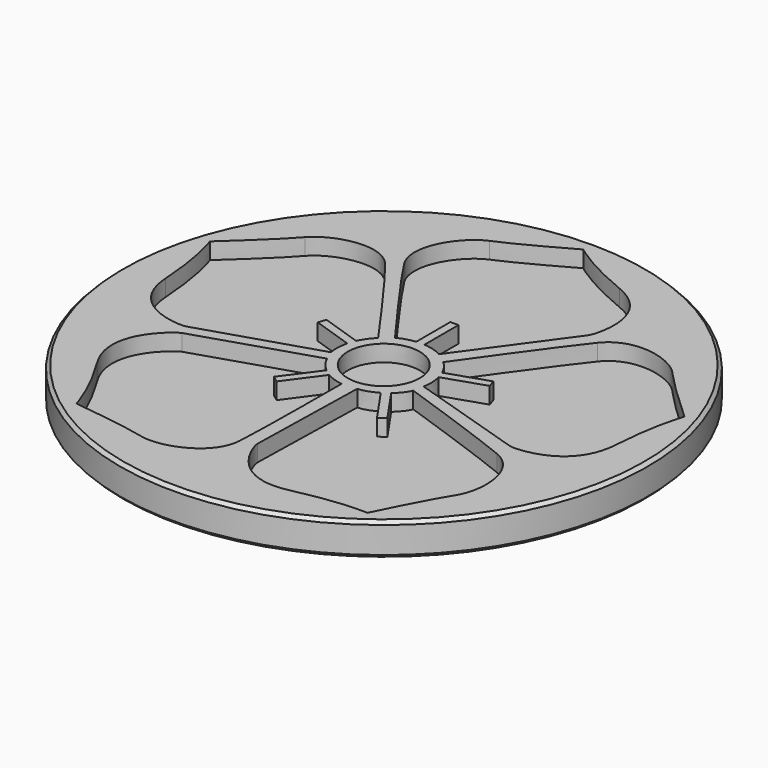
from build123d import *

# Parameters (mm, degrees)
POCKET_DEPTH = 1.25


with BuildPart() as part:
    # Sketch (on DatumPlane) → Revolution (revolve)
    with BuildSketch(Plane.YZ):
        Polygon((0, 0), (0, -2.5), (19.75, -2.5), (20, -2.25), (20, -0.25), (19.75, 0), align=None)
    revolve(axis=Axis((0, 0, 0), (0, 0, 1)))

    # Sketch005 → Pocket (cut)
    with BuildSketch(Plane.XY):
        with BuildLine():
            add(Edge.make_bspline(
                [(-0.056168, 18.95), (-0.056168, 18.95), (-3.561956, 16.959927), (-5.077856, 16.34444)],
                knots=[0, 0, 0, 0, 1, 1, 1, 1], degree=3))
            add(Edge.make_bspline(
                [(-5.077856, 16.34444), (-6.593818, 15.728394), (-8.536331, 12.98096), (-7.162366, 10.849076)],
                knots=[0, 0, 0, 0, 1, 1, 1, 1], degree=3))
            add(Edge.make_bspline(
                [(-7.162366, 10.849076), (-5.788401, 8.717192), (-1.666878, 3.126833), (-1.666878, 3.126833)],
                knots=[0, 0, 0, 0, 1, 1, 1, 1], degree=3))
            add(Edge.make_bspline(
                [(-1.666878, 3.126833), (-1.666878, 3.126833), (-1.382573, 3.410765), (-0.387723, 3.553135)],
                knots=[0, 0, 0, 0, 1, 1, 1, 1], degree=3))
            add(Edge.make_bspline(
                [(-0.387723, 3.553135), (-0.387723, 6.774804)],
                knots=[0, 0, 51.888, 51.888], degree=1))
            add(Edge.make_bspline(
                [(-0.387723, 6.774804), (0.228199, 6.774804)],
                knots=[0, 0, 9.92, 9.92], degree=1))
            add(Edge.make_bspline(
                [(0.228199, 6.774804), (0.228199, 3.553135)],
                knots=[0, 0, 51.888, 51.888], degree=1))
            add(Edge.make_bspline(
                [(0.228199, 3.553135), (0.228199, 3.553135), (1.08099, 3.505761), (1.649475, 3.126833)],
                knots=[0, 0, 0, 0, 1, 1, 1, 1], degree=3))
            add(Edge.make_bspline(
                [(1.649475, 3.126833), (1.649475, 3.126833), (6.813098, 10.23303), (7.050029, 10.564585)],
                knots=[0, 0, 0, 0, 1, 1, 1, 1], degree=3))
            add(Edge.make_bspline(
                [(7.050029, 10.564585), (7.287022, 10.896202), (8.546682, 14.842199), (4.72865, 16.391565)],
                knots=[0, 0, 0, 0, 1, 1, 1, 1], degree=3))
            add(Edge.make_bspline(
                [(4.72865, 16.391565), (1.459856, 17.718405), (-0.056168, 18.95), (-0.056168, 18.95)],
                knots=[0, 0, 0, 0, 1, 1, 1, 1], degree=3))
        make_face()
        with BuildLine():
            add(Edge.make_bspline(
                [(2.691451, 0.024313), (2.691451, -1.480038), (1.471715, -2.699837), (-0.032513, -2.699837)],
                knots=[0, 0, 0, 0, 1, 1, 1, 1], degree=3))
            add(Edge.make_bspline(
                [(-0.032513, -2.699837), (-1.537113, -2.699837), (-2.756663, -1.480038), (-2.756663, 0.024313)],
                knots=[0, 0, 0, 0, 1, 1, 1, 1], degree=3))
            add(Edge.make_bspline(
                [(-2.756663, 0.024313), (-2.756663, 1.528665), (-1.537113, 2.748153), (-0.032513, 2.748153)],
                knots=[0, 0, 0, 0, 1, 1, 1, 1], degree=3))
            add(Edge.make_bspline(
                [(-0.032513, 2.748153), (1.471777, 2.748153), (2.691451, 1.528603), (2.691451, 0.024313)],
                knots=[0, 0, 0, 0, 1, 1, 1, 1], degree=3))
        make_face()
        with BuildLine():
            add(Edge.make_bspline(
                [(18.002136, 5.962308), (18.002136, 5.962308), (15.005789, 8.659201), (13.942144, 9.902531)],
                knots=[0, 0, 0, 0, 1, 1, 1, 1], degree=3))
            add(Edge.make_bspline(
                [(13.942144, 9.902531), (12.878499, 11.145861), (9.657824, 12.120284), (8.069839, 10.142505)],
                knots=[0, 0, 0, 0, 1, 1, 1, 1], degree=3))
            add(Edge.make_bspline(
                [(8.069839, 10.142505), (6.481667, 8.165408), (2.481342, 2.487442), (2.481342, 2.487442)],
                knots=[0, 0, 0, 0, 1, 1, 1, 1], degree=3))
            add(Edge.make_bspline(
                [(2.481342, 2.487442), (2.481342, 2.487442), (2.840527, 2.307446), (3.290298, 1.408647)],
                knots=[0, 0, 0, 0, 1, 1, 1, 1], degree=3))
            add(Edge.make_bspline(
                [(3.290298, 1.408647), (6.346438, 2.427464)],
                knots=[0, 0, 51.885071, 51.885071], degree=1))
            add(Edge.make_bspline(
                [(6.346438, 2.427464), (6.541273, 1.843269)],
                knots=[0, 0, 9.918484, 9.918484], degree=1))
            add(Edge.make_bspline(
                [(6.541273, 1.843269), (3.485071, 0.824701)],
                knots=[0, 0, 51.884755, 51.884755], degree=1))
            add(Edge.make_bspline(
                [(3.485071, 0.824701), (3.485071, 0.824701), (3.709771, 0.000285), (3.530024, -0.658665)],
                knots=[0, 0, 0, 0, 1, 1, 1, 1], degree=3))
            add(Edge.make_bspline(
                [(3.530024, -0.658665), (3.530024, -0.658665), (11.904138, -3.310481), (12.293684, -3.43025)],
                knots=[0, 0, 0, 0, 1, 1, 1, 1], degree=3))
            add(Edge.make_bspline(
                [(12.293684, -3.43025), (12.683416, -3.550517), (16.824993, -3.497679), (17.087816, 0.613971)],
                knots=[0, 0, 0, 0, 1, 1, 1, 1], degree=3))
            add(Edge.make_bspline(
                [(17.087816, 0.613971), (17.312764, 4.134784), (18.002136, 5.962308), (18.002136, 5.962308)],
                knots=[0, 0, 0, 0, 1, 1, 1, 1], degree=3))
        make_face()
        with BuildLine():
            add(Edge.make_bspline(
                [(-17.95, 5.962308), (-17.95, 5.962308), (-14.953714, 8.659201), (-13.89007, 9.902531)],
                knots=[0, 0, 0, 0, 1, 1, 1, 1], degree=3))
            add(Edge.make_bspline(
                [(-13.89007, 9.902531), (-12.826425, 11.145861), (-9.60575, 12.120284), (-8.017765, 10.142505)],
                knots=[0, 0, 0, 0, 1, 1, 1, 1], degree=3))
            add(Edge.make_bspline(
                [(-8.017765, 10.142505), (-6.429593, 8.165408), (-2.429268, 2.487442), (-2.429268, 2.487442)],
                knots=[0, 0, 0, 0, 1, 1, 1, 1], degree=3))
            add(Edge.make_bspline(
                [(-2.429268, 2.487442), (-2.429268, 2.487442), (-2.788576, 2.307446), (-3.238286, 1.408647)],
                knots=[0, 0, 0, 0, 1, 1, 1, 1], degree=3))
            add(Edge.make_bspline(
                [(-3.238286, 1.408647), (-6.294425, 2.427464)],
                knots=[0, 0, 51.885071, 51.885071], degree=1))
            add(Edge.make_bspline(
                [(-6.294425, 2.427464), (-6.489198, 1.843269)],
                knots=[0, 0, 9.918168, 9.918168], degree=1))
            add(Edge.make_bspline(
                [(-6.489198, 1.843269), (-3.433059, 0.824701)],
                knots=[0, 0, 51.883806, 51.883806], degree=1))
            add(Edge.make_bspline(
                [(-3.433059, 0.824701), (-3.433059, 0.824701), (-3.657697, 0.000285), (-3.478011, -0.658665)],
                knots=[0, 0, 0, 0, 1, 1, 1, 1], degree=3))
            add(Edge.make_bspline(
                [(-3.478011, -0.658665), (-3.478011, -0.658665), (-11.852126, -3.310481), (-12.241672, -3.43025)],
                knots=[0, 0, 0, 0, 1, 1, 1, 1], degree=3))
            add(Edge.make_bspline(
                [(-12.241672, -3.43025), (-12.631404, -3.550517), (-16.772981, -3.497679), (-17.035865, 0.613971)],
                knots=[0, 0, 0, 0, 1, 1, 1, 1], degree=3))
            add(Edge.make_bspline(
                [(-17.035865, 0.613971), (-17.260689, 4.134784), (-17.95, 5.962308), (-17.95, 5.962308)],
                knots=[0, 0, 0, 0, 1, 1, 1, 1], degree=3))
        make_face()
        with BuildLine():
            add(Edge.make_bspline(
                [(11.057184, -15.376898), (11.057184, -15.376898), (12.808028, -11.745877), (13.704157, -10.377066)],
                knots=[0, 0, 0, 0, 1, 1, 1, 1], degree=3))
            add(Edge.make_bspline(
                [(13.704157, -10.377066), (14.600286, -9.007633), (14.634249, -5.642726), (12.291387, -4.671842)],
                knots=[0, 0, 0, 0, 1, 1, 1, 1], degree=3))
            add(Edge.make_bspline(
                [(12.291387, -4.671842), (9.948835, -3.700337), (3.378589, -1.448497), (3.378589, -1.448497)],
                knots=[0, 0, 0, 0, 1, 1, 1, 1], degree=3))
            add(Edge.make_bspline(
                [(3.378589, -1.448497), (3.378589, -1.448497), (3.306255, -1.843445), (2.569012, -2.527043)],
                knots=[0, 0, 0, 0, 1, 1, 1, 1], degree=3))
            add(Edge.make_bspline(
                [(2.569012, -2.527043), (4.40231, -5.175942)],
                knots=[0, 0, 51.884249, 51.884249], degree=1))
            add(Edge.make_bspline(
                [(4.40231, -5.175942), (3.895913, -5.526496)],
                knots=[0, 0, 9.919559, 9.919559], degree=1))
            add(Edge.make_bspline(
                [(3.895913, -5.526496), (2.062801, -2.877597)],
                knots=[0, 0, 51.882542, 51.882542], degree=1))
            add(Edge.make_bspline(
                [(2.062801, -2.877597), (2.062801, -2.877597), (1.334312, -3.323768), (0.651334, -3.335503)],
                knots=[0, 0, 0, 0, 1, 1, 1, 1], degree=3))
            add(Edge.make_bspline(
                [(0.651334, -3.335503), (0.651334, -3.335503), (0.44849, -12.117107), (0.442654, -12.52441)],
                knots=[0, 0, 0, 0, 1, 1, 1, 1], degree=3))
            add(Edge.make_bspline(
                [(0.442654, -12.52441), (0.436321, -12.932086), (1.645688, -16.893916), (5.666626, -15.995862)],
                knots=[0, 0, 0, 0, 1, 1, 1, 1], degree=3))
            add(Edge.make_bspline(
                [(5.666626, -15.995862), (9.109766, -15.226456), (11.057184, -15.376898), (11.057184, -15.376898)],
                knots=[0, 0, 0, 0, 1, 1, 1, 1], degree=3))
        make_face()
        with BuildLine():
            add(Edge.make_bspline(
                [(-11.13649, -15.200131), (-11.13649, -15.200131), (-7.133246, -15.672317), (-5.547124, -16.07397)],
                knots=[0, 0, 0, 0, 1, 1, 1, 1], degree=3))
            add(Edge.make_bspline(
                [(-5.547124, -16.07397), (-3.960566, -16.475002), (-0.768204, -15.410798), (-0.613292, -12.879621)],
                knots=[0, 0, 0, 0, 1, 1, 1, 1], degree=3))
            add(Edge.make_bspline(
                [(-0.613292, -12.879621), (-0.458194, -10.348132), (-0.46937, -3.402931), (-0.46937, -3.402931)],
                knots=[0, 0, 0, 0, 1, 1, 1, 1], degree=3))
            add(Edge.make_bspline(
                [(-0.46937, -3.402931), (-0.46937, -3.402931), (-0.866428, -3.463282), (-1.752747, -2.988985)],
                knots=[0, 0, 0, 0, 1, 1, 1, 1], degree=3))
            add(Edge.make_bspline(
                [(-1.752747, -2.988985), (-3.65987, -5.585107)],
                knots=[0, 0, 51.882556, 51.882556], degree=1))
            add(Edge.make_bspline(
                [(-3.65987, -5.585107), (-4.156519, -5.220521)],
                knots=[0, 0, 9.922922, 9.922922], degree=1))
            add(Edge.make_bspline(
                [(-4.156519, -5.220521), (-2.249148, -2.624399)],
                knots=[0, 0, 51.884924, 51.884924], degree=1))
            add(Edge.make_bspline(
                [(-2.249148, -2.624399), (-2.249148, -2.624399), (-2.90847, -2.080935), (-3.141986, -1.438998)],
                knots=[0, 0, 0, 0, 1, 1, 1, 1], degree=3))
            add(Edge.make_bspline(
                [(-3.141986, -1.438998), (-3.141986, -1.438998), (-11.510451, -4.108013), (-11.897761, -4.235481)],
                knots=[0, 0, 0, 0, 1, 1, 1, 1], degree=3))
            add(Edge.make_bspline(
                [(-11.897761, -4.235481), (-12.285196, -4.36208), (-15.636878, -6.796275), (-13.478048, -10.305043)],
                knots=[0, 0, 0, 0, 1, 1, 1, 1], degree=3))
            add(Edge.make_bspline(
                [(-13.478048, -10.305043), (-11.628668, -13.309897), (-11.13649, -15.200131), (-11.13649, -15.200131)],
                knots=[0, 0, 0, 0, 1, 1, 1, 1], degree=3))
        make_face()
    extrude(amount=-POCKET_DEPTH, mode=Mode.SUBTRACT)


solid = part.part
